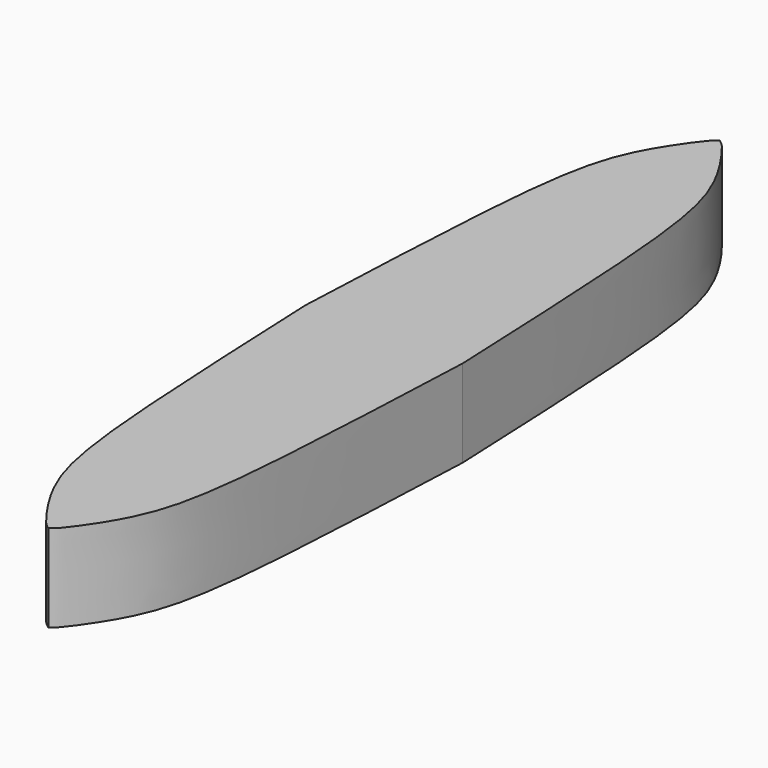
from build123d import *

# Parameters (mm, degrees)
F1_DEPTH = 508


with BuildPart() as f1:
    # F0 (on Top) → F1 (new body)
    with BuildSketch(Plane.XY):
        with BuildLine():
            add(Edge.make_bspline(
                [(45.8489955951, 6631.9143470764), (54.5330922301, 6626.050749809), (76.7175061698, 6611.0715902689), (130.5404693293, 6541.9218219737), (218.2541596105, 6415.5256902784), (322.9598386957, 6220.4771171922), (397.8677535598, 5927.5840665674), (454.3220083661, 5339.1947052417), (484.972340268, 4618.5369090549), (503.0489955951, 4193.5143470764)],
                knots=[0, 0, 0, 0, 0.0499096863, 0.1274994036, 0.2334860676, 0.3588977899, 0.5032821963, 0.7070505937, 1, 1, 1, 1], degree=3))
            add(Edge.make_bspline(
                [(45.8489955951, 6631.9143470764), (37.1648989601, 6626.050749809), (14.9804850204, 6611.0715902689), (-38.8424781392, 6541.9218219737), (-126.5561684204, 6415.5256902784), (-231.2618475055, 6220.4771171922), (-306.1697623696, 5927.5840665674), (-362.624017176, 5339.1947052417), (-393.2743490778, 4618.5369090549), (-411.3510044049, 4193.5143470764)],
                knots=[0, 0, 0, 0, 0.0499096863, 0.1274994036, 0.2334860676, 0.3588977899, 0.5032821963, 0.7070505937, 1, 1, 1, 1], degree=3))
            add(Edge.make_bspline(
                [(45.8489955951, 1755.1143470764), (37.1648989601, 1760.9779443439), (14.9804850204, 1775.957103884), (-38.8424781392, 1845.1068721792), (-126.5561684204, 1971.5030038744), (-231.2618475055, 2166.5515769607), (-306.1697623696, 2459.4446275854), (-362.624017176, 3047.8339889111), (-393.2743490778, 3768.4917850979), (-411.3510044049, 4193.5143470764)],
                knots=[0, 0, 0, 0, 0.0499096863, 0.1274994036, 0.2334860676, 0.3588977899, 0.5032821963, 0.7070505937, 1, 1, 1, 1], degree=3))
            add(Edge.make_bspline(
                [(45.8489955951, 1755.1143470764), (54.5330922301, 1760.9779443439), (76.7175061698, 1775.957103884), (130.5404693293, 1845.1068721792), (218.2541596105, 1971.5030038744), (322.9598386957, 2166.5515769607), (397.8677535598, 2459.4446275854), (454.3220083661, 3047.8339889111), (484.972340268, 3768.4917850979), (503.0489955951, 4193.5143470764)],
                knots=[0, 0, 0, 0, 0.0499096863, 0.1274994036, 0.2334860676, 0.3588977899, 0.5032821963, 0.7070505937, 1, 1, 1, 1], degree=3))
        make_face()
    extrude(amount=F1_DEPTH)


solid = f1.part
